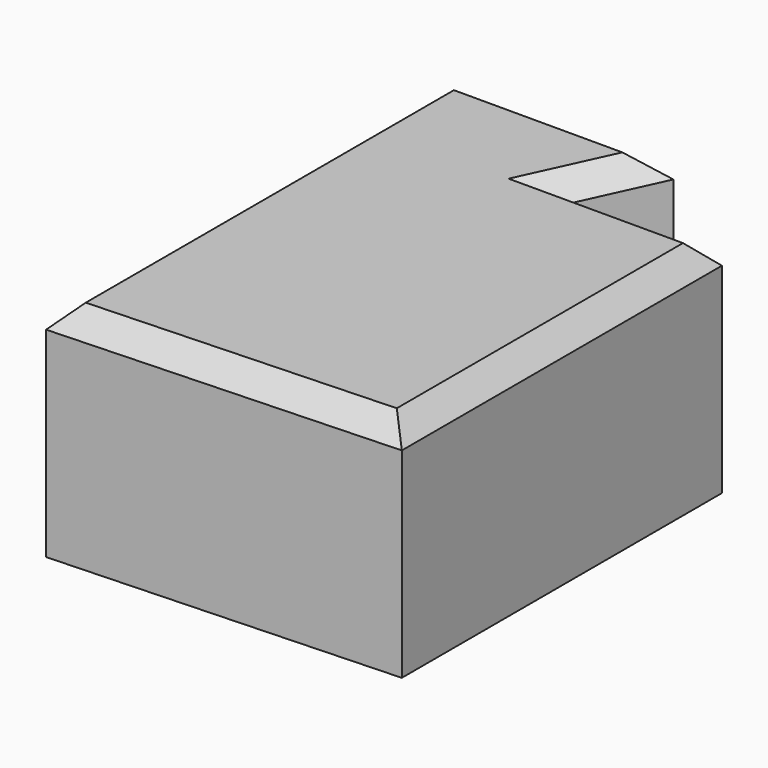
from build123d import *

# Parameters (mm, degrees)
F1_DEPTH = 52.07476
F2_SIZE  = 5.08


with BuildPart() as f1:
    # F0 (on Top) → F1 (new body)
    with BuildSketch(Plane.XY):
        Polygon((-64.110152, 55.120572), (-64.110152, -63.26732), (16.753428, -59.971586), (16.753428, 33.947513), (-21.318547, 33.947513), (-11.569425, 55.120572), align=None)
    extrude(amount=F1_DEPTH)

    # F2
    f2_edges = [f1.edges().sort_by_distance(p)[0] for p in [
        (-23.678362, -61.619453, 52.07476),
        (-64.110152, -4.073374, 52.07476),
        (16.753428, -13.012037, 52.07476),
        (-2.28256, 33.947513, 52.07476),
        (-16.443986, 44.534042, 52.07476),
        (-37.839789, 55.120572, 52.07476),
    ]]
    chamfer(f2_edges, length=F2_SIZE)


solid = f1.part
